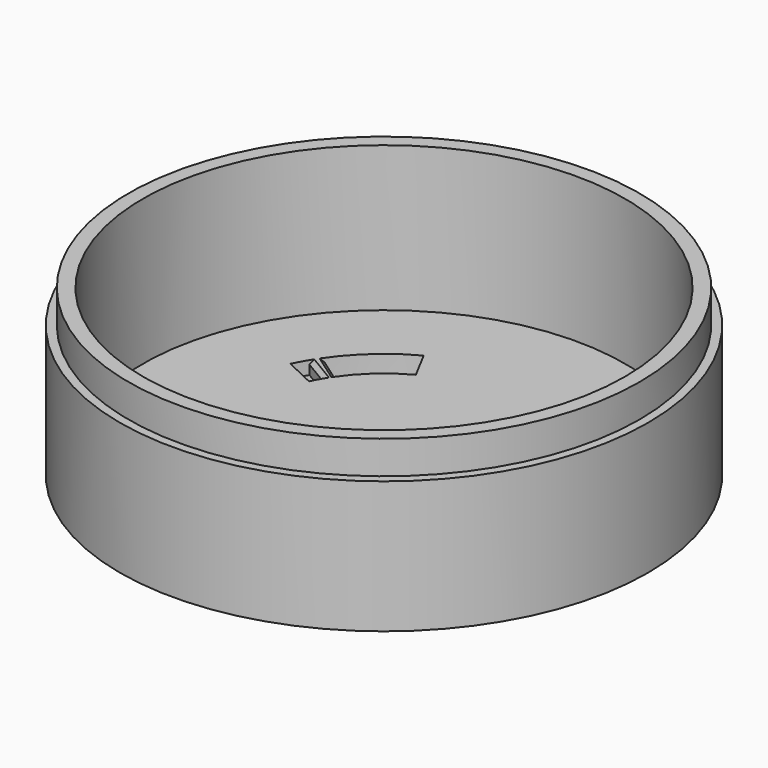
from build123d import *

# Parameters (mm, degrees)
F0_R     = 50.8
F1_DEPTH = 25.4
F2_R     = 49.149
F3_DEPTH = 6.35
F4_R     = 46.355
F5_DEPTH = 27.94
F7_DEPTH = 31.751
F9_DEPTH = 2.54
F10_SIZE = 0.762


with BuildPart() as f1:
    # F0 (on Top) → F1 (new body)
    with BuildSketch(Plane.XY):
        Circle(F0_R)
    extrude(amount=F1_DEPTH)

    # F2 (on face) → F3 (join)
    with BuildSketch(Plane.XY.offset(25.4)):
        Circle(F2_R)
    extrude(amount=F3_DEPTH)

    # F4 (on face) → F5 (cut)
    with BuildSketch(Plane.XY.offset(31.75)):
        Circle(F4_R)
    extrude(amount=-F5_DEPTH, mode=Mode.SUBTRACT)

    # F6 (on face) → F7 (cut, through all)
    with BuildSketch(Plane(origin=(0, 0, 0), x_dir=(1, 0, 0), z_dir=(0, 0, -1))):
        with BuildLine():
            ThreePointArc((26.263693, 18.529348), (21.249092, 24.116268), (15.075286, 28.387569))
            Line((15.075286, 28.387569), (12.097015, 22.779325))
            ThreePointArc((12.097015, 22.779325), (17.051125, 19.351862), (21.075042, 14.868693))
            Line((21.075042, 14.868693), (26.263693, 18.529348))
        make_face()
        with BuildLine():
            ThreePointArc((-18.529348, 26.263693), (-24.116268, 21.249092), (-28.387569, 15.075286))
            Line((-28.387569, 15.075286), (-22.779325, 12.097015))
            ThreePointArc((-22.779325, 12.097015), (-19.351862, 17.051125), (-14.868693, 21.075042))
            Line((-14.868693, 21.075042), (-18.529348, 26.263693))
        make_face()
        with BuildLine():
            ThreePointArc((-26.263693, -18.529348), (-21.249092, -24.116268), (-15.075286, -28.387569))
            Line((-15.075286, -28.387569), (-12.097015, -22.779325))
            ThreePointArc((-12.097015, -22.779325), (-17.051125, -19.351862), (-21.075042, -14.868693))
            Line((-21.075042, -14.868693), (-26.263693, -18.529348))
        make_face()
        with BuildLine():
            ThreePointArc((18.529348, -26.263693), (24.116268, -21.249092), (28.387569, -15.075286))
            Line((28.387569, -15.075286), (22.779325, -12.097015))
            ThreePointArc((22.779325, -12.097015), (19.351862, -17.051125), (14.868693, -21.075042))
            Line((14.868693, -21.075042), (18.529348, -26.263693))
        make_face()
    extrude(amount=-F7_DEPTH, mode=Mode.SUBTRACT)

    # F8 (on face) → F9 (cut)
    with BuildSketch(Plane.XY.offset(3.81)):
        with BuildLine():
            Line((-22.118151, 13.267361), (-27.563613, 16.533769))
            ThreePointArc((-27.563613, 16.533769), (-28.329177, 15.184731), (-29.028766, 13.800328))
            Line((-29.028766, 13.800328), (-23.293849, 11.073938))
            ThreePointArc((-23.293849, 11.073938), (-22.73247, 12.184838), (-22.118151, 13.267361))
        make_face()
        with BuildLine():
            Line((-13.267361, -22.118151), (-16.533769, -27.563613))
            ThreePointArc((-16.533769, -27.563613), (-15.184731, -28.329177), (-13.800328, -29.028766))
            Line((-13.800328, -29.028766), (-11.073938, -23.293849))
            ThreePointArc((-11.073938, -23.293849), (-12.184838, -22.73247), (-13.267361, -22.118151))
        make_face()
        with BuildLine():
            Line((22.118151, -13.267361), (27.563613, -16.533769))
            ThreePointArc((27.563613, -16.533769), (28.329177, -15.184731), (29.028766, -13.800328))
            Line((29.028766, -13.800328), (23.293849, -11.073938))
            ThreePointArc((23.293849, -11.073938), (22.73247, -12.184838), (22.118151, -13.267361))
        make_face()
        with BuildLine():
            Line((13.267361, 22.118151), (16.533769, 27.563613))
            ThreePointArc((16.533769, 27.563613), (15.184731, 28.329177), (13.800328, 29.028766))
            Line((13.800328, 29.028766), (11.073938, 23.293849))
            ThreePointArc((11.073938, 23.293849), (12.184838, 22.73247), (13.267361, 22.118151))
        make_face()
    extrude(amount=-F9_DEPTH, mode=Mode.SUBTRACT)

    # F10
    f10_edges = [f1.edges().sort_by_distance(p)[0] for p in [
        (-23.669367, 16.69902, 3.81),
        (-24.840882, 14.900565, 3.81),
        (12.437133, 26.161307, 3.81),
        (14.900565, 24.840882, 3.81),
        (24.840882, -14.900565, 3.81),
        (26.161307, -12.437133, 3.81),
        (-12.437133, -26.161307, 3.81),
        (-14.900565, -24.840882, 3.81),
        (23.669367, -16.69902, 3.81),
        (16.69902, 23.669367, 3.81),
        (-16.69902, -23.669367, 3.81),
    ]]
    chamfer(f10_edges, length=F10_SIZE)


solid = f1.part
